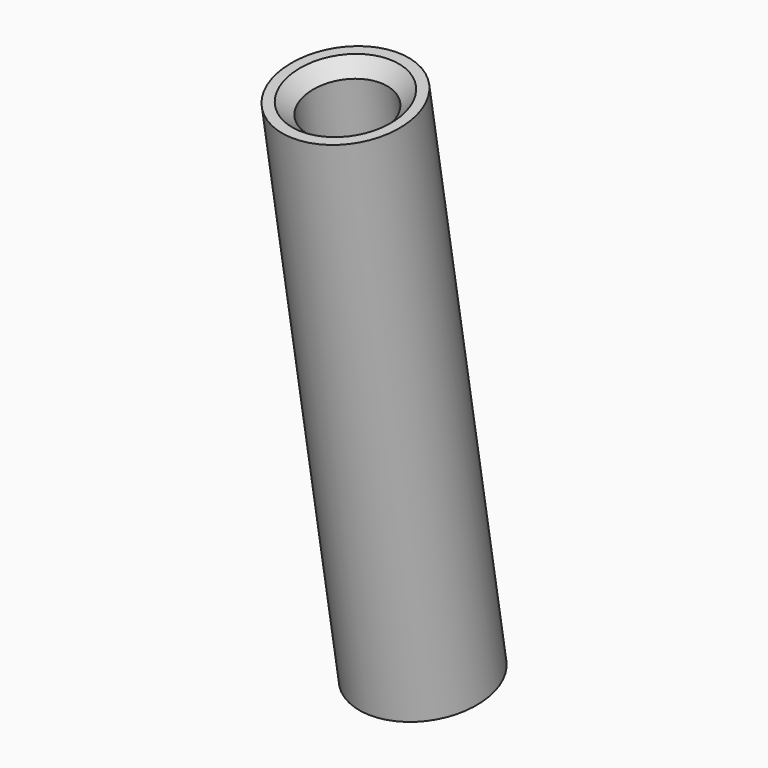
from build123d import *

# Parameters (mm, degrees)
CYLINDER003_R               = 1.2
CYLINDER003_DEPTH           = 16
CYLINDER003_PLACEMENT_ANGLE = 10
CYLINDER002_R               = 1.9
CYLINDER002_DEPTH           = 16
CYLINDER002_PLACEMENT_ANGLE = 10
CHAMFER_SIZE                = 0.4


with BuildPart() as cylinder003:
    # Cylinder003 → Cylinder003 (new body)
    with BuildSketch(Plane.XY):
        Circle(CYLINDER003_R)
    extrude(amount=CYLINDER003_DEPTH)


with BuildPart() as cylinder003_1:
    # Cylinder003 placement: moved
    add(cylinder003.part.moved(Location((0.52, 0.33, 2.75))).rotate(Axis((0.52, 0.33, 2.75), (1, 0, 0)), CYLINDER003_PLACEMENT_ANGLE))


with BuildPart() as chamfer_body:
    # Cylinder002 → Cylinder002 (new body)
    with BuildSketch(Plane.XY):
        Circle(CYLINDER002_R)
    extrude(amount=CYLINDER002_DEPTH)


with BuildPart() as chamfer_body_1:
    # Cylinder002 placement: moved
    add(chamfer_body.part.moved(Location((0.52, 0.33, 2.75))).rotate(Axis((0.52, 0.33, 2.75), (1, 0, 0)), CYLINDER002_PLACEMENT_ANGLE))

    # Cut001: cut Cylinder003
    add(cylinder003_1.part, mode=Mode.SUBTRACT)

    # Chamfer
    chamfer_edges = [chamfer_body_1.edges().sort_by_distance(p)[0] for p in [
        (-0.68, -2.448371, 18.506924),
    ]]
    chamfer(chamfer_edges, length=CHAMFER_SIZE)


solid = chamfer_body_1.part
